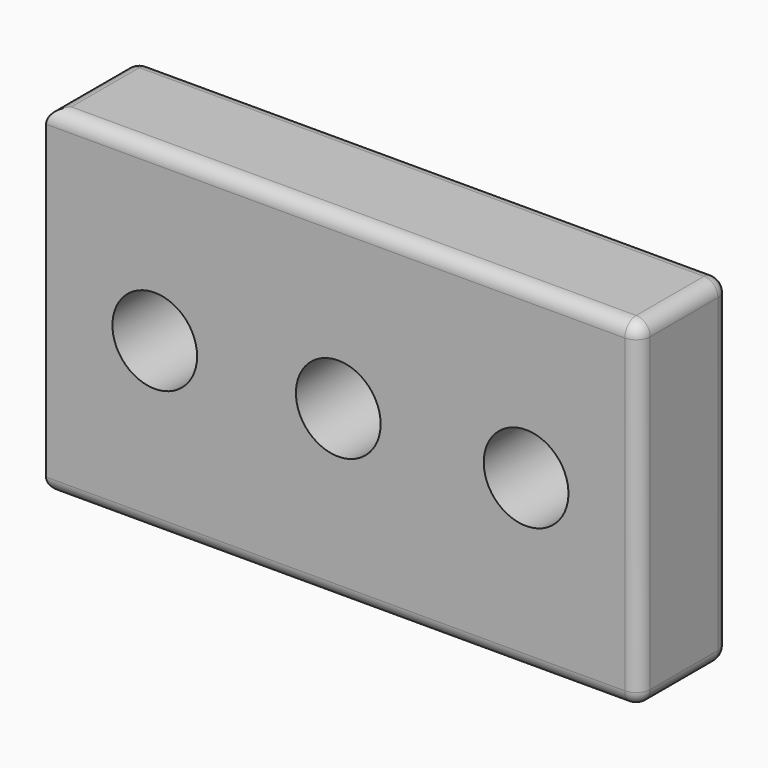
from build123d import *

# Parameters (mm, degrees)
F0_W     = 266.7
F0_H     = 152.4
F0_R     = 19.05
F1_DEPTH = 50.8
F2_R     = 6.35


with BuildPart() as f1:
    # F0 (on Front) → F1 (new body)
    with BuildSketch(Plane.XZ):
        with Locations((1.909529, 0)):
            Rectangle(F0_W, F0_H)
        with Locations((-82.55, 0)):
            Circle(F0_R, mode=Mode.SUBTRACT)
        with BuildLine():
            ThreePointArc((-19.05, 0), (0, 19.05), (19.05, 0))
            ThreePointArc((19.05, 0), (0, -19.05), (-19.05, 0))
        make_face(mode=Mode.SUBTRACT)
        with BuildLine():
            ThreePointArc((103.550499, 0), (84.500499, -19.05), (65.450499, 0))
            ThreePointArc((65.450499, 0), (84.500499, 19.05), (103.550499, 0))
        make_face(mode=Mode.SUBTRACT)
    extrude(amount=F1_DEPTH)

    # F2
    f2_edges = [f1.edges().sort_by_distance(p)[0] for p in [
        (1.909529, -50.8, -76.2),
        (-131.440471, -25.4, -76.2),
        (135.259529, -25.4, -76.2),
        (1.909529, 0, -76.2),
        (-131.440471, 0, 0),
        (135.259529, -25.4, 76.2),
        (-131.440471, -25.4, 76.2),
        (1.909529, 0, 76.2),
        (1.909529, -50.8, 76.2),
        (135.259529, 0, 0),
        (135.259529, -50.8, 0),
    ]]
    fillet(f2_edges, radius=F2_R)


solid = f1.part
